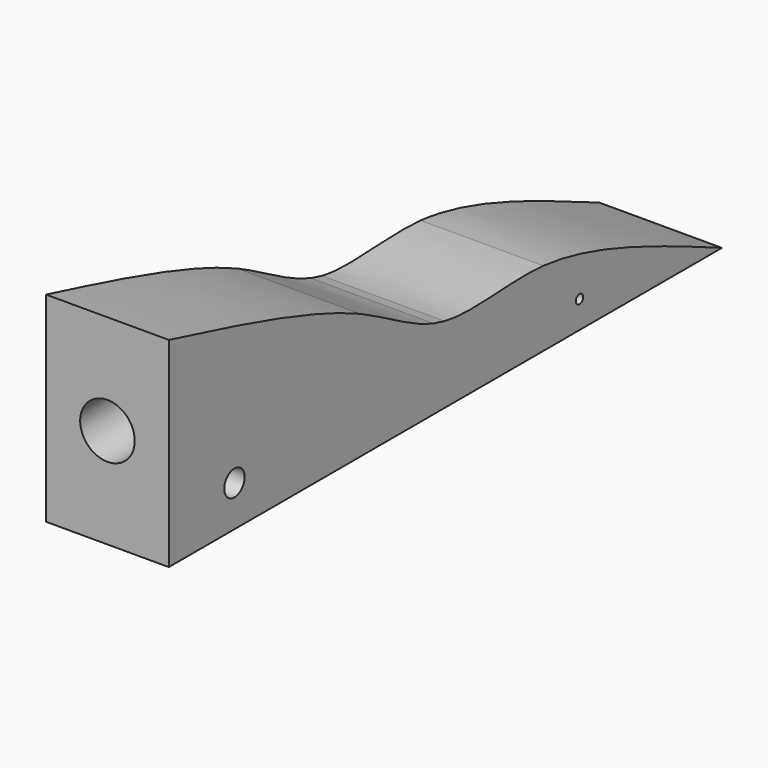
from build123d import *

# Parameters (mm, degrees)
F1_DEPTH = 21.43125
F2_R     = 9.525
F3_DEPTH = 50.8
F4_R     = 4.445
F4_R_2   = 1.5875
F5_DEPTH = 42.8635


with BuildPart() as f1:
    # F0 (on Right) → F1 (new body, symmetric)
    with BuildSketch(Plane.YZ):
        Polygon((-152.4, 69.85), (-152.4, 0), (152.4, 0), (152.4, 19.05), align=None)
    extrude(amount=F1_DEPTH, both=True)

    # F2 (on face) → F3 (cut)
    with BuildSketch(Plane.XZ.offset(152.4)):
        with Locations((0, 34.925)):
            Circle(F2_R)
    extrude(amount=-F3_DEPTH, mode=Mode.SUBTRACT)

    # F4 (on face) → F5 (intersect, through all)
    with BuildSketch(Plane.YZ.offset(21.43125)):
        with BuildLine():
            add(Edge.make_bspline(
                [(-152.4, 69.85), (-121.3656988164, 61.9505317028), (-90.3313976582, 54.0510634121), (-68.8373446816, 43.905343877)],
                knots=[0, 0, 0, 0, 0.298244377, 0.298244377, 0.298244377, 0.298244377], degree=3))
            Line((-152.4, 69.85), (-152.4, 0))
            Line((-152.4, 0), (89.0480875969, 0))
            add(Edge.make_bspline(
                [(11.0622523739, 26.2030381672), (33.9802557949, 23.9980037311), (61.5141716843, 11.9990018706), (89.0480875969, 0)],
                knots=[0.7108019534, 0.7108019534, 0.7108019534, 0.7108019534, 1, 1, 1, 1], degree=3))
            add(Edge.make_bspline(
                [(-31.9974124432, 26.681477204), (-19.2539773306, 24.1221974468), (-4.6688570157, 27.4575486936), (11.0622523353, 26.2030381709)],
                knots=[0.5026616476, 0.5026616476, 0.5026616476, 0.5026616476, 0.67191681, 0.67191681, 0.67191681, 0.67191681], degree=3))
            add(Edge.make_bspline(
                [(-36.899590382, 27.9662974151), (-35.2882031733, 27.4415892282), (-33.6596662635, 27.0073672393), (-31.9974124719, 26.6814772096)],
                knots=[0.4733294563, 0.4733294563, 0.4733294563, 0.4733294563, 0.501572538, 0.501572538, 0.501572538, 0.501572538], degree=3))
            add(Edge.make_bspline(
                [(-68.8373446465, 43.9053438604), (-56.8790512682, 38.1190372354), (-47.2945707385, 31.3048888776), (-36.899590382, 27.9662974151)],
                knots=[0.3381802775, 0.3381802775, 0.3381802775, 0.3381802775, 0.4805951467, 0.4805951467, 0.4805951467, 0.4805951467], degree=3))
        make_face()
        with Locations((-123.747177422, 14.2507199198)):
            Circle(F4_R, mode=Mode.SUBTRACT)
        with Locations((26.8527399749, 9.525)):
            Circle(F4_R_2, mode=Mode.SUBTRACT)
    extrude(amount=-F5_DEPTH, mode=Mode.INTERSECT)


solid = f1.part
